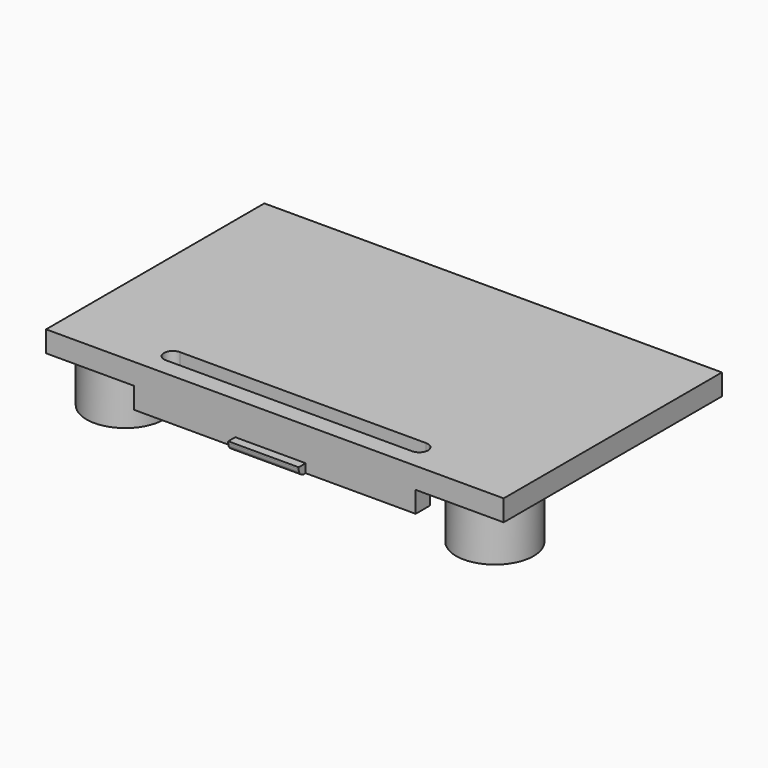
from build123d import *

# Parameters (mm, degrees)
EXTRUDE006_START = -0.7
SKETCH006_W      = 4
SKETCH006_H      = 1
EXTRUDE006_DEPTH = 0.5
FILLET001_R      = 0.4
SKETCH005_W      = 16
SKETCH005_H      = 1
EXTRUDE005_DEPTH = 1.2
EXTRUDE004_DEPTH = 2
SKETCH002_R      = 2.2
EXTRUDE002_DEPTH = 2.8
SKETCH007_W      = 6
SKETCH007_H      = 1.5
EXTRUDE007_DEPTH = 0.3
EXTRUDE001_START = -0.2
SKETCH001_W      = 6
SKETCH001_H      = 3
EXTRUDE001_DEPTH = 1
FILLET_R         = 0.9
SKETCH_W         = 26
SKETCH_H         = 15.5
EXTRUDE_DEPTH    = 1.2


with BuildPart() as fillet001:
    # Sketch006 → Extrude006 (new body)
    with BuildSketch(Plane.XY.offset(EXTRUDE006_START)):
        with Locations((12.75, 0)):
            Rectangle(SKETCH006_W, SKETCH006_H)
    extrude(amount=-EXTRUDE006_DEPTH)

    # Fillet001
    fillet001_edges = [fillet001.edges().sort_by_distance(p)[0] for p in [
        (12.75, -0.5, -1.2),
    ]]
    fillet(fillet001_edges, radius=FILLET001_R)


with BuildPart() as extrude005:
    # Sketch005 → Extrude005 (new body)
    with BuildSketch(Plane.XY):
        with Locations((13, 0.5)):
            Rectangle(SKETCH005_W, SKETCH005_H)
    extrude(amount=-EXTRUDE005_DEPTH)


with BuildPart() as extrude004:
    # Sketch004 → Extrude004 (new body)
    with BuildSketch(Plane.XY):
        with BuildLine():
            ThreePointArc((6, 2), (5.5, 1.5), (6, 1))
            Line((6, 1), (20, 1))
            ThreePointArc((20, 1), (20.5, 1.5), (20, 2))
            Line((6, 2), (20, 2))
        make_face()
    extrude(amount=EXTRUDE004_DEPTH)


with BuildPart() as extrude002:
    # Sketch002 → Extrude002 (new body)
    with BuildSketch(Plane.XY):
        with Locations((2.5, 2.5)):
            Circle(SKETCH002_R)
        with Locations((23.5, 2.5)):
            Circle(SKETCH002_R)
    extrude(amount=-EXTRUDE002_DEPTH)


with BuildPart() as extrude007:
    # Sketch007 (on Fillet) → Extrude007 (new body)
    with BuildSketch(Plane.XY):
        with Locations((6.5, 14.75)):
            Rectangle(SKETCH007_W, SKETCH007_H)
        with Locations((19.5, 14.75)):
            Rectangle(SKETCH007_W, SKETCH007_H)
    extrude(amount=-EXTRUDE007_DEPTH)


with BuildPart() as fusion005:
    # Sketch001 (on Sketch) → Extrude001 (new body)
    with BuildSketch(Plane.XY.offset(EXTRUDE001_START)):
        with Locations((6.5, 15.5)):
            Rectangle(SKETCH001_W, SKETCH001_H)
        with Locations((19.5, 15.5)):
            Rectangle(SKETCH001_W, SKETCH001_H)
    extrude(amount=-EXTRUDE001_DEPTH)

    # Fillet
    fillet_edges = [fusion005.edges().sort_by_distance(p)[0] for p in [
        (19.5, 17, -1.2),
        (19.5, 14, -1.2),
        (6.5, 17, -1.2),
        (6.5, 14, -1.2),
    ]]
    fillet(fillet_edges, radius=FILLET_R)

    # Fusion005: union Extrude007
    add(extrude007.part)


with BuildPart() as fusion004:
    # Sketch → Extrude (new body)
    with BuildSketch(Plane.XY):
        with Locations((13, 7.75)):
            Rectangle(SKETCH_W, SKETCH_H)
    extrude(amount=EXTRUDE_DEPTH)

    # Fusion: union Fusion005
    add(fusion005.part)

    # Fusion001: union Extrude002
    add(extrude002.part)

    # Cut001: cut Extrude004
    add(extrude004.part, mode=Mode.SUBTRACT)

    # Fusion003: union Extrude005
    add(extrude005.part)

    # Fusion004: union Fillet001
    add(fillet001.part)


solid = fusion004.part
